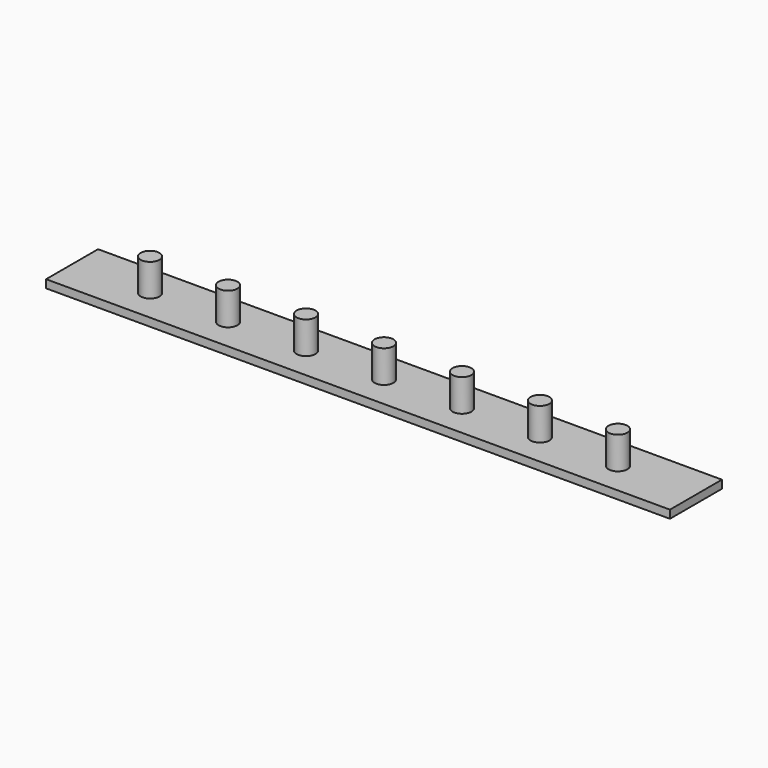
from build123d import *

# Parameters (mm, degrees)
F1_DEPTH = 3
F2_DEPTH = 15


with BuildPart() as f1:
    # F0 (on Top) → F1 (new body)
    with BuildSketch(Plane.XY):
        with BuildLine():
            Line((103.325337, 31.135112), (-128.665581, 31.135112))
            Line((-128.665581, 31.135112), (-128.665581, 19.054298))
            Line((-128.665581, 19.054298), (-103.166717, 19.054298))
            ThreePointArc((-103.166717, 19.054298), (-99.666717, 22.554298), (-96.166717, 19.054298))
            Line((-96.166717, 19.054298), (-74.167852, 19.054298))
            ThreePointArc((-74.167852, 19.054298), (-70.667852, 22.554298), (-67.167852, 19.054298))
            Line((-67.167852, 19.054298), (-45.168987, 19.054298))
            ThreePointArc((-45.168987, 19.054298), (-41.668987, 22.554298), (-38.168987, 19.054298))
            Line((-38.168987, 19.054298), (-16.170122, 19.054298))
            ThreePointArc((-16.170122, 19.054298), (-12.670122, 22.554298), (-9.170122, 19.054298))
            Line((-9.170122, 19.054298), (12.828743, 19.054298))
            ThreePointArc((12.828743, 19.054298), (16.328743, 22.554298), (19.828743, 19.054298))
            Line((19.828743, 19.054298), (41.827608, 19.054298))
            ThreePointArc((41.827608, 19.054298), (45.327608, 22.554298), (48.827608, 19.054298))
            Line((48.827608, 19.054298), (70.826472, 19.054298))
            ThreePointArc((70.826472, 19.054298), (74.326472, 22.554298), (77.826472, 19.054298))
            Line((77.826472, 19.054298), (103.325337, 19.054298))
            Line((103.325337, 19.054298), (103.325337, 31.135112))
        make_face()
        with BuildLine():
            Line((-103.166717, 19.054298), (-128.665581, 19.054298))
            Line((-128.665581, 19.054298), (-128.665581, 6.973484))
            Line((-128.665581, 6.973484), (103.325337, 6.973484))
            Line((103.325337, 6.973484), (103.325337, 19.054298))
            Line((103.325337, 19.054298), (77.826472, 19.054298))
            ThreePointArc((77.826472, 19.054298), (74.326472, 15.554298), (70.826472, 19.054298))
            Line((70.826472, 19.054298), (48.827608, 19.054298))
            ThreePointArc((48.827608, 19.054298), (45.327608, 15.554298), (41.827608, 19.054298))
            Line((41.827608, 19.054298), (19.828743, 19.054298))
            ThreePointArc((19.828743, 19.054298), (16.328743, 15.554298), (12.828743, 19.054298))
            Line((12.828743, 19.054298), (-9.170122, 19.054298))
            ThreePointArc((-9.170122, 19.054298), (-12.670122, 15.554298), (-16.170122, 19.054298))
            Line((-16.170122, 19.054298), (-38.168987, 19.054298))
            ThreePointArc((-38.168987, 19.054298), (-41.668987, 15.554298), (-45.168987, 19.054298))
            Line((-45.168987, 19.054298), (-67.167852, 19.054298))
            ThreePointArc((-67.167852, 19.054298), (-70.667852, 15.554298), (-74.167852, 19.054298))
            Line((-74.167852, 19.054298), (-96.166717, 19.054298))
            ThreePointArc((-96.166717, 19.054298), (-99.666717, 15.554298), (-103.166717, 19.054298))
        make_face()
    extrude(amount=F1_DEPTH)

    # F0 (on Top) → F2 (join)
    with BuildSketch(Plane.XY):
        with BuildLine():
            ThreePointArc((-96.166717, 19.054298), (-99.666717, 22.554298), (-103.166717, 19.054298))
            Line((-103.166717, 19.054298), (-99.666717, 19.054298))
            Line((-99.666717, 19.054298), (-96.166717, 19.054298))
        make_face()
        with BuildLine():
            Line((-99.666717, 19.054298), (-103.166717, 19.054298))
            ThreePointArc((-103.166717, 19.054298), (-99.666717, 15.554298), (-96.166717, 19.054298))
            Line((-96.166717, 19.054298), (-99.666717, 19.054298))
        make_face()
        with BuildLine():
            ThreePointArc((-67.167852, 19.054298), (-70.667852, 22.554298), (-74.167852, 19.054298))
            Line((-74.167852, 19.054298), (-70.667852, 19.054298))
            Line((-70.667852, 19.054298), (-67.167852, 19.054298))
        make_face()
        with BuildLine():
            Line((-70.667852, 19.054298), (-74.167852, 19.054298))
            ThreePointArc((-74.167852, 19.054298), (-70.667852, 15.554298), (-67.167852, 19.054298))
            Line((-67.167852, 19.054298), (-70.667852, 19.054298))
        make_face()
        with BuildLine():
            ThreePointArc((-38.168987, 19.054298), (-41.668987, 22.554298), (-45.168987, 19.054298))
            Line((-45.168987, 19.054298), (-41.668987, 19.054298))
            Line((-41.668987, 19.054298), (-38.168987, 19.054298))
        make_face()
        with BuildLine():
            Line((-41.668987, 19.054298), (-45.168987, 19.054298))
            ThreePointArc((-45.168987, 19.054298), (-41.668987, 15.554298), (-38.168987, 19.054298))
            Line((-38.168987, 19.054298), (-41.668987, 19.054298))
        make_face()
        with BuildLine():
            ThreePointArc((-9.170122, 19.054298), (-12.670122, 22.554298), (-16.170122, 19.054298))
            Line((-16.170122, 19.054298), (-12.670122, 19.054298))
            Line((-12.670122, 19.054298), (-9.170122, 19.054298))
        make_face()
        with BuildLine():
            Line((-12.670122, 19.054298), (-16.170122, 19.054298))
            ThreePointArc((-16.170122, 19.054298), (-12.670122, 15.554298), (-9.170122, 19.054298))
            Line((-9.170122, 19.054298), (-12.670122, 19.054298))
        make_face()
        with BuildLine():
            Line((16.328743, 19.054298), (19.828743, 19.054298))
            ThreePointArc((19.828743, 19.054298), (16.328743, 22.554298), (12.828743, 19.054298))
            Line((12.828743, 19.054298), (16.328743, 19.054298))
        make_face()
        with BuildLine():
            ThreePointArc((12.828743, 19.054298), (16.328743, 15.554298), (19.828743, 19.054298))
            Line((19.828743, 19.054298), (16.328743, 19.054298))
            Line((16.328743, 19.054298), (12.828743, 19.054298))
        make_face()
        with BuildLine():
            Line((45.327608, 19.054298), (48.827608, 19.054298))
            ThreePointArc((48.827608, 19.054298), (45.327608, 22.554298), (41.827608, 19.054298))
            Line((41.827608, 19.054298), (45.327608, 19.054298))
        make_face()
        with BuildLine():
            ThreePointArc((41.827608, 19.054298), (45.327608, 15.554298), (48.827608, 19.054298))
            Line((48.827608, 19.054298), (45.327608, 19.054298))
            Line((45.327608, 19.054298), (41.827608, 19.054298))
        make_face()
        with BuildLine():
            Line((74.326472, 19.054298), (77.826472, 19.054298))
            ThreePointArc((77.826472, 19.054298), (74.326472, 22.554298), (70.826472, 19.054298))
            Line((70.826472, 19.054298), (74.326472, 19.054298))
        make_face()
        with BuildLine():
            ThreePointArc((70.826472, 19.054298), (74.326472, 15.554298), (77.826472, 19.054298))
            Line((77.826472, 19.054298), (74.326472, 19.054298))
            Line((74.326472, 19.054298), (70.826472, 19.054298))
        make_face()
    extrude(amount=F2_DEPTH)


solid = f1.part
